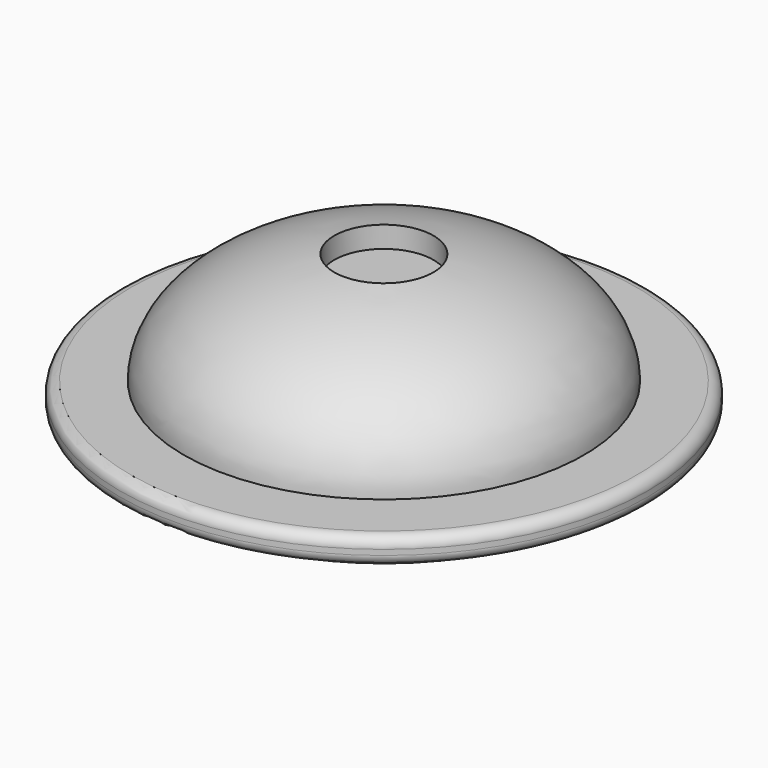
from build123d import *

# Parameters (mm, degrees)
F2_R = 1


with BuildPart() as f1:
    # F0 (on Front) → F1 (revolve)
    with BuildSketch(Plane.XZ):
        with BuildLine():
            Line((-20.25, 0), (0, 0))
            Line((0, 0), (0, 13))
            Line((0, 13), (-4.65, 13))
            Line((-4.65, 13), (-4.65, 15))
            add(Edge.make_bspline(
                [(-4.65, 15), (-18.75, 12.9134615385), (-18.75, 4.5)],
                knots=[4.9630041935, 4.9630041935, 4.9630041935, 6.2831853072, 6.2831853072, 6.2831853072], degree=2, weights=[1, 0.7899367063, 1]))
            Line((-18.75, 4.5), (-24.75, 4.5))
            Line((-24.75, 4.5), (-24.75, 2))
            Line((-24.75, 2), (-20.25, 2))
            Line((-20.25, 2), (-20.25, 0))
        make_face()
    revolve(axis=Axis((0, 0, 6.5), (0, 0, 1)))

    # F2
    f2_edges = [f1.edges().sort_by_distance(p)[0] for p in [
        (24.75, 0, 4.5),
        (24.75, 0, 2),
    ]]
    fillet(f2_edges, radius=F2_R)


solid = f1.part
